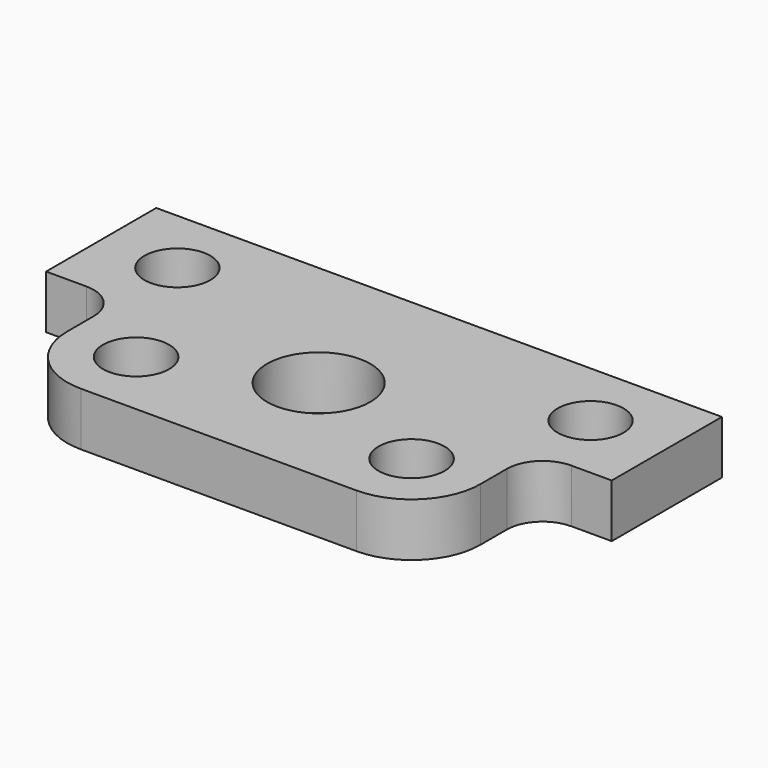
from build123d import *

# Parameters (mm, degrees)
F0_R     = 1.524
F0_R_2   = 2.38125
F0_R_3   = 1.519554
F1_DEPTH = 2.4638


with BuildPart() as f1:
    # F0 (on Top) → F1 (new body)
    with BuildSketch(Plane.XY):
        with BuildLine():
            ThreePointArc((-21.506696, 14.320038), (-20.57676, 12.074974), (-18.331696, 11.145038))
            Line((-18.331696, 11.145038), (-17.426178, 11.145038))
            Line((-17.426178, 11.145038), (-6.537213, 11.145038))
            Line((-6.537213, 11.145038), (-5.631696, 11.145038))
            ThreePointArc((-5.631696, 11.145038), (-3.386632, 12.074974), (-2.456696, 14.320038))
            Line((-2.456696, 14.320038), (-2.456696, 15.844038))
            ThreePointArc((-2.456696, 15.844038), (-1.973129, 17.011471), (-0.805696, 17.495038))
            Line((-0.805696, 17.495038), (-0.59268, 17.495038))
            Line((-0.59268, 17.495038), (1.05832, 17.495038))
            Line((1.05832, 17.495038), (1.05832, 19.146038))
            Line((1.05832, 19.146038), (1.05832, 22.194038))
            Line((1.05832, 22.194038), (1.05832, 23.845038))
            Line((1.05832, 23.845038), (-0.59268, 23.845038))
            Line((-0.59268, 23.845038), (-2.456696, 23.845038))
            Line((-2.456696, 23.845038), (-4.92218, 23.845038))
            Line((-4.92218, 23.845038), (-18.700644, 23.845038))
            Line((-18.700644, 23.845038), (-23.370711, 23.845038))
            Line((-23.370711, 23.845038), (-25.021711, 23.845038))
            Line((-25.021711, 23.845038), (-25.021711, 22.194038))
            Line((-25.021711, 22.194038), (-25.021711, 19.146038))
            Line((-25.021711, 19.146038), (-25.021711, 17.495038))
            Line((-25.021711, 17.495038), (-23.370711, 17.495038))
            Line((-23.370711, 17.495038), (-23.157696, 17.495038))
            ThreePointArc((-23.157696, 17.495038), (-21.990262, 17.011471), (-21.506696, 15.844038))
            Line((-21.506696, 15.844038), (-21.506696, 14.320038))
        make_face()
        with Locations((-18.331696, 14.320038)):
            Circle(F0_R, mode=Mode.SUBTRACT)
        with Locations((-5.631696, 14.320038)):
            Circle(F0_R, mode=Mode.SUBTRACT)
        with Locations((-11.936313, 16.847185)):
            Circle(F0_R_2, mode=Mode.SUBTRACT)
        with Locations((-21.506696, 20.670038)):
            Circle(F0_R_3, mode=Mode.SUBTRACT)
        with Locations((-2.456696, 20.670038)):
            Circle(F0_R_3, mode=Mode.SUBTRACT)
    extrude(amount=F1_DEPTH)


solid = f1.part
